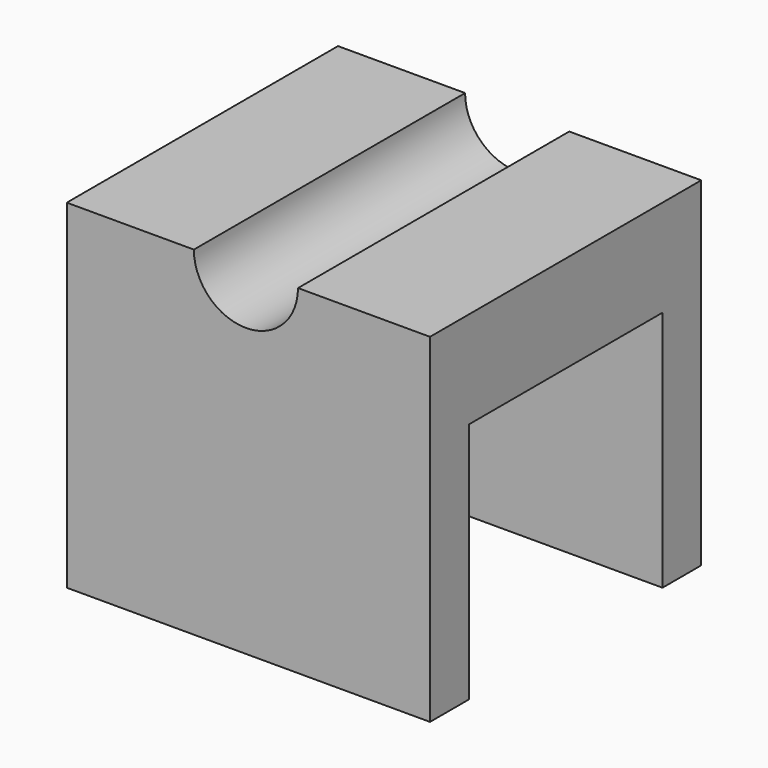
from build123d import *

# Parameters (mm, degrees)
F0_W     = 30
F0_H     = 28
F1_DEPTH = 28
F3_DEPTH = 28.001
F4_W     = 30
F4_H     = 20
F5_DEPTH = 20


with BuildPart() as f1:
    # F0 (on Top) → F1 (new body)
    with BuildSketch(Plane.XY):
        with Locations((0.2024, 0.448397)):
            Rectangle(F0_W, F0_H)
    extrude(amount=F1_DEPTH)

    # F2 (on face) → F3 (cut, through all)
    with BuildSketch(Plane.XZ.offset(13.551603)):
        with BuildLine():
            ThreePointArc((-4.3, 28), (0, 23.7), (4.3, 28))
            Line((4.3, 28), (-4.3, 28))
        make_face()
    extrude(amount=-F3_DEPTH, mode=Mode.SUBTRACT)

    # F4 (on face) → F5 (cut)
    with BuildSketch(Plane(origin=(0, 0, 0), x_dir=(1, 0, 0), z_dir=(0, 0, -1))):
        with Locations((0.2024, -0.448397)):
            Rectangle(F4_W, F4_H)
    extrude(amount=-F5_DEPTH, mode=Mode.SUBTRACT)


solid = f1.part
